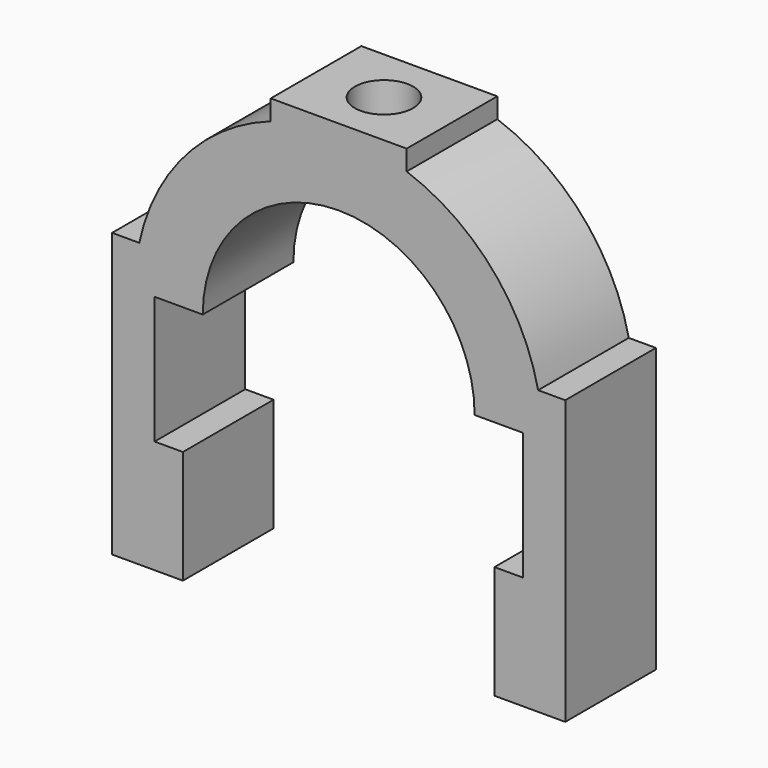
from build123d import *

# Parameters (mm, degrees)
F1_DEPTH = 10
F3_D     = 10.3


with BuildPart() as f1:
    # F0 (on Front) → F1 (new body, symmetric)
    with BuildSketch(Plane.XZ):
        with BuildLine():
            Line((-12, 37.5), (-12, 33.941125497))
            ThreePointArc((-12, 33.941125497), (-27.0551525977, 23.749078254), (-35.2100837829, 7.5))
            Line((-35.2100837829, 7.5), (-40, 7.5))
            Line((-40, 7.5), (-40, -42.5))
            Line((-40, -42.5), (-27.5, -42.5))
            Line((-27.5, -42.5), (-27.5, -22.5))
            Line((-27.5, -22.5), (-32.5, -22.5))
            Line((-32.5, -22.5), (-32.5, 0))
            Line((-32.5, 0), (-24, 0))
            ThreePointArc((-24, 0), (-16.9705627485, 16.9705627485), (0, 24))
            ThreePointArc((0, 24), (16.9705627485, 16.9705627485), (24, 0))
            Line((24, 0), (32.5, 0))
            Line((32.5, 0), (32.5, -22.5))
            Line((32.5, -22.5), (27.5, -22.5))
            Line((27.5, -22.5), (27.5, -42.5))
            Line((27.5, -42.5), (40, -42.5))
            Line((40, -42.5), (40, 7.5))
            Line((40, 7.5), (35.2100837829, 7.5))
            ThreePointArc((35.2100837829, 7.5), (27.0551525977, 23.749078254), (12, 33.941125497))
            Line((12, 33.941125497), (12, 37.5))
            Line((12, 37.5), (0, 37.5))
            Line((0, 37.5), (-12, 37.5))
        make_face()
    extrude(amount=F1_DEPTH, both=True)

    # F3 (through all)
    with Locations(Plane(origin=(0, 0, 0), x_dir=(1, 0, 0), z_dir=(0, 0, -1))):
        with Locations((0, 0)):
            Hole(F3_D / 2)


solid = f1.part
